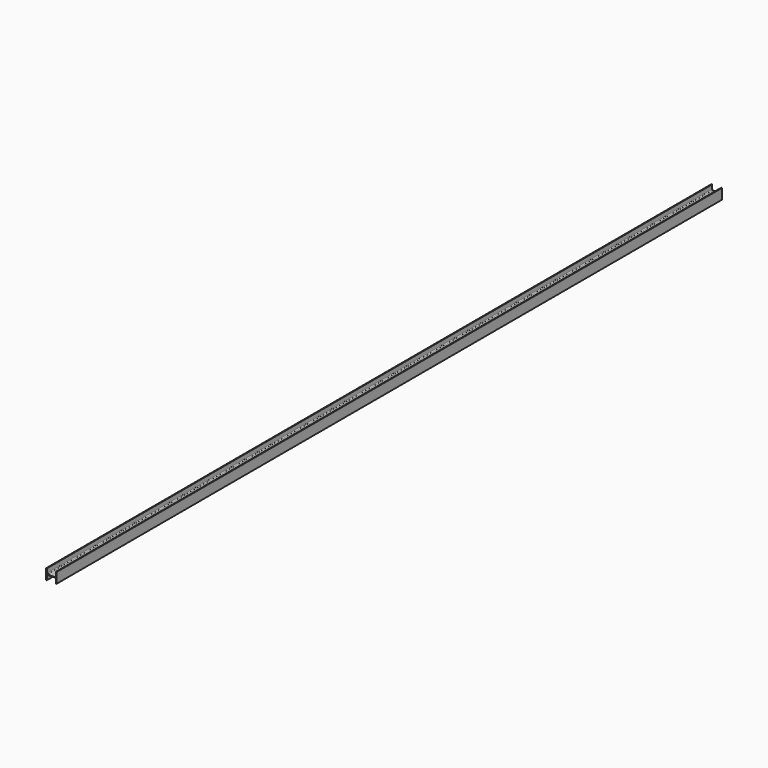
from build123d import *

# Parameters (mm, degrees)
F1_DEPTH = 12000


with BuildPart() as f1:
    # F0 (on Front) → F1 (new body)
    with BuildSketch(Plane.XZ):
        with BuildLine():
            Line((-75, 75.050631), (-75, -74.949369))
            Line((-75, -74.949369), (-65, -74.949369))
            Line((-65, -74.949369), (-65, -14.5))
            ThreePointArc((-65, -14.5), (-61.778175, -6.721825), (-54, -3.5))
            Line((-54, -3.5), (54, -3.5))
            ThreePointArc((54, -3.5), (61.778175, -6.721825), (65, -14.5))
            Line((65, -14.5), (65, -74.949369))
            Line((65, -74.949369), (75, -74.949369))
            Line((75, -74.949369), (75, 75.050631))
            Line((75, 75.050631), (65, 75.183973))
            Line((65, 75.183973), (65, 14.5))
            ThreePointArc((65, 14.5), (61.778175, 6.721825), (54, 3.5))
            Line((54, 3.5), (-54, 3.5))
            ThreePointArc((-54, 3.5), (-61.778175, 6.721825), (-65, 14.5))
            Line((-65, 14.5), (-65, 75.183973))
            Line((-65, 75.183973), (-75, 75.050631))
        make_face()
    extrude(amount=F1_DEPTH)


solid = f1.part
